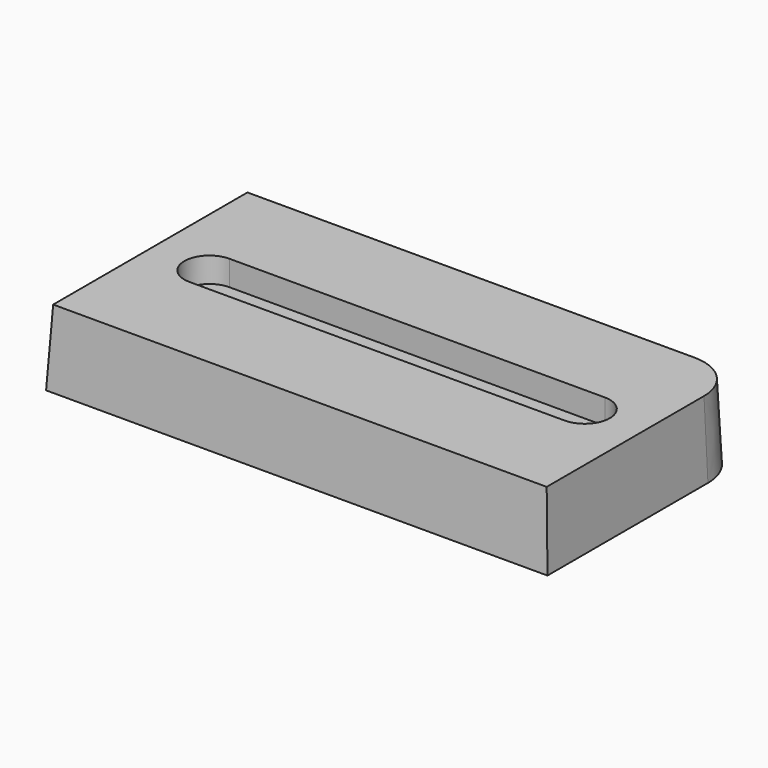
from build123d import *

# Parameters (mm, degrees)
F1_DEPTH = 30
F1_TAPER = 3
F2_DEPTH = 30
F3_START = 20
F3_DEPTH = 10


with BuildPart() as f1:
    # F0 (on Top) → F1 (new body)
    with BuildSketch(Plane.XY):
        with BuildLine():
            Line((265.848302468, 214.8965468303), (85.848302468, 214.8965468303))
            Line((85.848302468, 214.8965468303), (85.848302468, 114.8965468303))
            Line((85.848302468, 114.8965468303), (285.848302468, 114.8965468303))
            Line((285.848302468, 114.8965468303), (285.848302468, 194.8965468303))
            ThreePointArc((285.848302468, 194.8965468303), (279.9904380917, 209.0386824541), (265.848302468, 214.8965468303))
        make_face()
        with BuildLine():
            Line((260.6931902693, 154.8965468303), (111.0034146666, 154.8965468303))
            ThreePointArc((111.0034146666, 154.8965468303), (101.0034146666, 164.8965468303), (111.0034146666, 174.8965468303))
            Line((111.0034146666, 174.8965468303), (260.6931902693, 174.8965468303))
            ThreePointArc((260.6931902693, 174.8965468303), (270.6931902693, 164.8965468303), (260.6931902693, 154.8965468303))
        make_face(mode=Mode.SUBTRACT)
        with BuildLine():
            ThreePointArc((111.0034146666, 174.8965468303), (101.0034146666, 164.8965468303), (111.0034146666, 154.8965468303))
            Line((111.0034146666, 154.8965468303), (260.6931902693, 154.8965468303))
            ThreePointArc((260.6931902693, 154.8965468303), (270.6931902693, 164.8965468303), (260.6931902693, 174.8965468303))
            Line((260.6931902693, 174.8965468303), (111.0034146666, 174.8965468303))
        make_face()
        with BuildLine():
            Line((260.6931902693, 159.8965468303), (111.0034146666, 159.8965468303))
            ThreePointArc((111.0034146666, 159.8965468303), (106.0034146666, 164.8965468303), (111.0034146666, 169.8965468303))
            Line((111.0034146666, 169.8965468303), (260.6931902693, 169.8965468303))
            ThreePointArc((260.6931902693, 169.8965468303), (265.6931902693, 164.8965468303), (260.6931902693, 159.8965468303))
        make_face(mode=Mode.SUBTRACT)
        with BuildLine():
            ThreePointArc((111.0034146666, 169.8965468303), (106.0034146666, 164.8965468303), (111.0034146666, 159.8965468303))
            Line((111.0034146666, 159.8965468303), (260.6931902693, 159.8965468303))
            ThreePointArc((260.6931902693, 159.8965468303), (265.6931902693, 164.8965468303), (260.6931902693, 169.8965468303))
            Line((260.6931902693, 169.8965468303), (111.0034146666, 169.8965468303))
        make_face()
    extrude(amount=F1_DEPTH, taper=F1_TAPER)

    # F0 (on Top) → F2 (cut)
    with BuildSketch(Plane.XY):
        with BuildLine():
            ThreePointArc((111.0034146666, 169.8965468303), (106.0034146666, 164.8965468303), (111.0034146666, 159.8965468303))
            Line((111.0034146666, 159.8965468303), (260.6931902693, 159.8965468303))
            ThreePointArc((260.6931902693, 159.8965468303), (265.6931902693, 164.8965468303), (260.6931902693, 169.8965468303))
            Line((260.6931902693, 169.8965468303), (111.0034146666, 169.8965468303))
        make_face()
    extrude(amount=F2_DEPTH, mode=Mode.SUBTRACT)

    # F0 (on Top) → F3 (cut)
    with BuildSketch(Plane.XY.offset(F3_START)):
        with BuildLine():
            ThreePointArc((111.0034146666, 174.8965468303), (101.0034146666, 164.8965468303), (111.0034146666, 154.8965468303))
            Line((111.0034146666, 154.8965468303), (260.6931902693, 154.8965468303))
            ThreePointArc((260.6931902693, 154.8965468303), (270.6931902693, 164.8965468303), (260.6931902693, 174.8965468303))
            Line((260.6931902693, 174.8965468303), (111.0034146666, 174.8965468303))
        make_face()
        with BuildLine():
            Line((260.6931902693, 159.8965468303), (111.0034146666, 159.8965468303))
            ThreePointArc((111.0034146666, 159.8965468303), (106.0034146666, 164.8965468303), (111.0034146666, 169.8965468303))
            Line((111.0034146666, 169.8965468303), (260.6931902693, 169.8965468303))
            ThreePointArc((260.6931902693, 169.8965468303), (265.6931902693, 164.8965468303), (260.6931902693, 159.8965468303))
        make_face(mode=Mode.SUBTRACT)
    extrude(amount=F3_DEPTH, mode=Mode.SUBTRACT)


solid = f1.part
